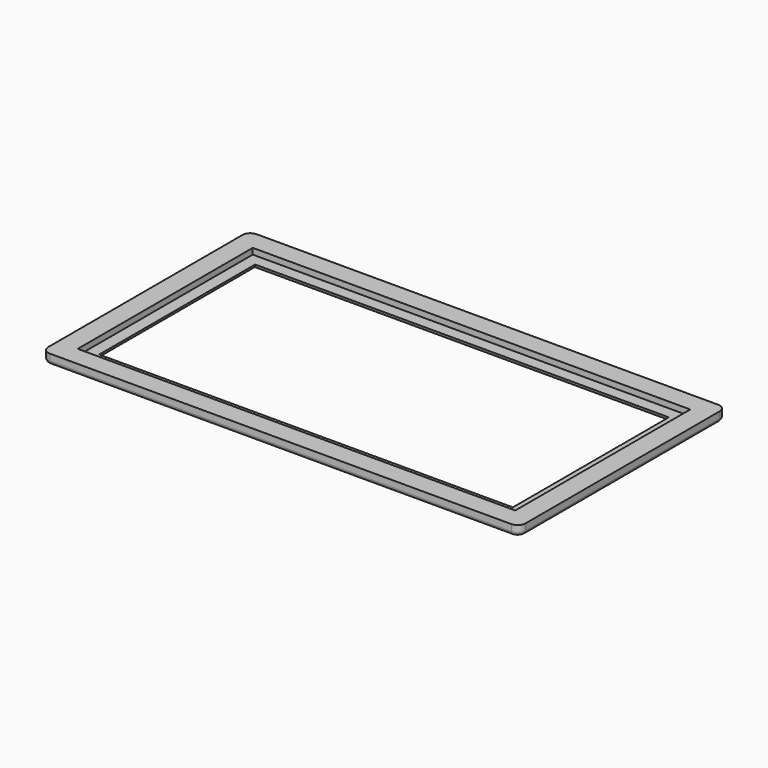
from build123d import *

# Parameters (mm, degrees)
SKETCH_W      = 120
SKETCH_H      = 65
PAD_DEPTH     = 1
SKETCH001_W   = 120
SKETCH001_H   = 65
SKETCH001_W_2 = 110
SKETCH001_H_2 = 55
PAD001_DEPTH  = 1.5
SKETCH002_W   = 104
SKETCH002_H   = 49
POCKET_DEPTH  = 1.001
FILLET_R      = 2
FILLET001_R   = 0.9


with BuildPart() as part:
    # Sketch → Pad (new body)
    with BuildSketch(Plane.XY):
        Rectangle(SKETCH_W, SKETCH_H)
    extrude(amount=PAD_DEPTH)

    # Sketch001 (on Face6 of Pad) → Pad001 (join)
    with BuildSketch(Plane.XY.offset(1)):
        Rectangle(SKETCH001_W, SKETCH001_H)
        Rectangle(SKETCH001_W_2, SKETCH001_H_2, mode=Mode.SUBTRACT)
    extrude(amount=PAD001_DEPTH)

    # Sketch002 (on Face15 of Pad001) → Pocket (cut, through all)
    with BuildSketch(Plane.XY.offset(1)):
        Rectangle(SKETCH002_W, SKETCH002_H)
    extrude(amount=-POCKET_DEPTH, mode=Mode.SUBTRACT)

    # Fillet
    fillet_edges = [part.edges().sort_by_distance(p)[0] for p in [
        (-60, -32.5, 1.75),
        (-60, -32.5, 0.5),
        (60, -32.5, 1.75),
        (60, -32.5, 0.5),
        (-60, 32.5, 1.75),
        (-60, 32.5, 0.5),
        (60, 32.5, 1.75),
        (60, 32.5, 0.5),
    ]]
    fillet(fillet_edges, radius=FILLET_R)

    # Fillet001
    fillet001_edges = [part.edges().sort_by_distance(p)[0] for p in [
        (0, -32.5, 0),
        (0, -24.5, 0),
        (52, 0, 0),
        (0, 24.5, 0),
        (-52, 0, 0),
        (-60, 0, 0),
        (0, 32.5, 0),
        (60, 0, 0),
    ]]
    fillet(fillet001_edges, radius=FILLET001_R)


solid = part.part
